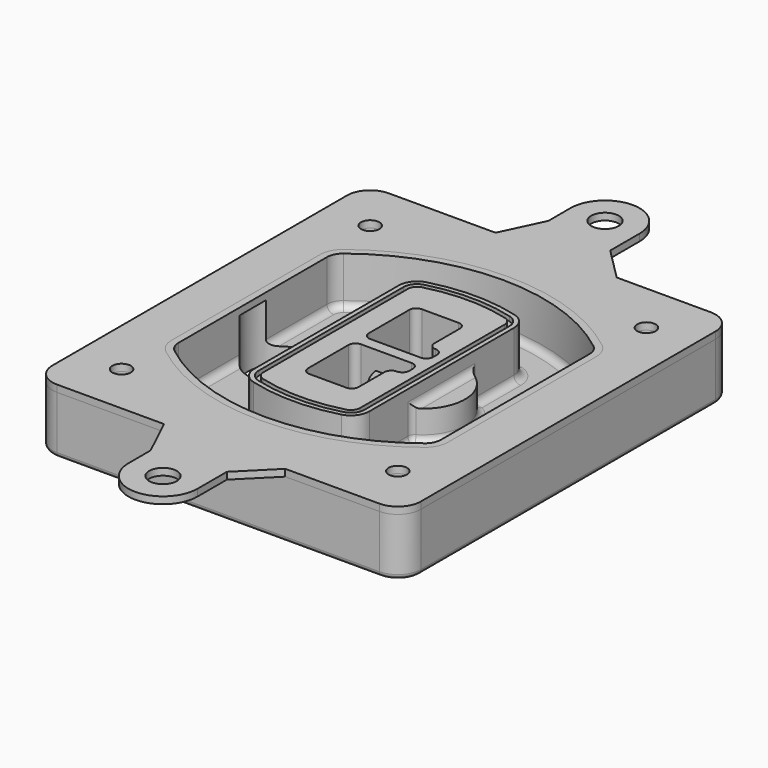
from build123d import *

# Parameters (mm, degrees)
F0_R      = 4
F1_DEPTH  = 25
F2_DEPTH  = 3
F3_DEPTH  = 18
F5_DEPTH  = 21
F6_DEPTH  = 2
F8_DEPTH  = 20
F9_DEPTH  = 16
F10_DEPTH = 25
F7_R      = 6
F7_R_2    = 4
F11_DEPTH = 6
F13_DEPTH = 9
F14_R     = 3
F15_R     = 2
F16_R     = 4
F16_R_2   = 6
F17_DEPTH = 3


with BuildPart() as f1:
    # F0 (on Top) → F1 (new body)
    with BuildSketch(Plane.XY):
        with BuildLine():
            ThreePointArc((-80, -80), (-77.0710678119, -87.0710678119), (-70, -90))
            Line((-70, -90), (70, -90))
            ThreePointArc((70, -90), (77.0710678119, -87.0710678119), (80, -80))
            Line((80, -80), (80, 80))
            ThreePointArc((80, 80), (77.0710678119, 87.0710678119), (70, 90))
            Line((70, 90), (-70, 90))
            ThreePointArc((-70, 90), (-77.0710678119, 87.0710678119), (-80, 80))
            Line((-80, 80), (-80, -80))
        make_face()
        with Locations((-60, -67.5)):
            Circle(F0_R, mode=Mode.SUBTRACT)
        with Locations((60, -67.5)):
            Circle(F0_R, mode=Mode.SUBTRACT)
        with Locations((-60, 67.5)):
            Circle(F0_R, mode=Mode.SUBTRACT)
        with BuildLine():
            ThreePointArc((-64, 40.2934422872), (-62.5820384798, 46.4328484224), (-58.6153846154, 51.3286200352))
            ThreePointArc((-58.6153846154, 51.3286200352), (0, 71.5), (58.6153846154, 51.3286200352))
            ThreePointArc((58.6153846154, 51.3286200352), (62.5820384798, 46.4328484224), (64, 40.2934422872))
            Line((64, 40.2934422872), (64, -40.2934422872))
            ThreePointArc((64, -40.2934422872), (62.5820384798, -46.4328484224), (58.6153846154, -51.3286200352))
            ThreePointArc((58.6153846154, -51.3286200352), (0, -71.5), (-58.6153846154, -51.3286200352))
            ThreePointArc((-58.6153846154, -51.3286200352), (-62.5820384798, -46.4328484224), (-64, -40.2934422872))
            Line((-64, -40.2934422872), (-64, 40.2934422872))
        make_face(mode=Mode.SUBTRACT)
        with Locations((60, 67.5)):
            Circle(F0_R, mode=Mode.SUBTRACT)
        with BuildLine():
            ThreePointArc((58.6153846154, 51.3286200352), (0, 71.5), (-58.6153846154, 51.3286200352))
            ThreePointArc((-58.6153846154, 51.3286200352), (-62.5820384798, 46.4328484224), (-64, 40.2934422872))
            Line((-64, 40.2934422872), (-64, -40.2934422872))
            ThreePointArc((-64, -40.2934422872), (-62.5820384798, -46.4328484224), (-58.6153846154, -51.3286200352))
            ThreePointArc((-58.6153846154, -51.3286200352), (0, -71.5), (58.6153846154, -51.3286200352))
            ThreePointArc((58.6153846154, -51.3286200352), (62.5820384798, -46.4328484224), (64, -40.2934422872))
            Line((64, -40.2934422872), (64, 40.2934422872))
            ThreePointArc((64, 40.2934422872), (62.5820384798, 46.4328484224), (58.6153846154, 51.3286200352))
        make_face()
        with BuildLine():
            Line((-60, -40.2934422872), (-60, 40.2934422872))
            ThreePointArc((-60, 40.2934422872), (-58.9871703427, 44.6787323838), (-56.1538461538, 48.1757121072))
            ThreePointArc((-56.1538461538, 48.1757121072), (0, 67.5), (56.1538461538, 48.1757121072))
            ThreePointArc((56.1538461538, 48.1757121072), (58.9871703427, 44.6787323838), (60, 40.2934422872))
            Line((60, 40.2934422872), (60, -40.2934422872))
            ThreePointArc((60, -40.2934422872), (58.9871703427, -44.6787323838), (56.1538461538, -48.1757121072))
            ThreePointArc((56.1538461538, -48.1757121072), (0, -67.5), (-56.1538461538, -48.1757121072))
            ThreePointArc((-56.1538461538, -48.1757121072), (-58.9871703427, -44.6787323838), (-60, -40.2934422872))
        make_face(mode=Mode.SUBTRACT)
        with BuildLine():
            ThreePointArc((-56.1538461538, 48.1757121072), (-58.9871703427, 44.6787323838), (-60, 40.2934422872))
            Line((-60, 40.2934422872), (-60, -40.2934422872))
            ThreePointArc((-60, -40.2934422872), (-58.9871703427, -44.6787323838), (-56.1538461538, -48.1757121072))
            ThreePointArc((-56.1538461538, -48.1757121072), (0, -67.5), (56.1538461538, -48.1757121072))
            ThreePointArc((56.1538461538, -48.1757121072), (58.9871703427, -44.6787323838), (60, -40.2934422872))
            Line((60, -40.2934422872), (60, 40.2934422872))
            ThreePointArc((60, 40.2934422872), (58.9871703427, 44.6787323838), (56.1538461538, 48.1757121072))
            ThreePointArc((56.1538461538, 48.1757121072), (0, 67.5), (-56.1538461538, 48.1757121072))
        make_face()
        with BuildLine():
            ThreePointArc((54.3076923077, 45.8110311612), (56.2910192399, 43.3631453548), (57, 40.2934422872))
            Line((57, 40.2934422872), (57, -40.2934422872))
            ThreePointArc((57, -40.2934422872), (56.2910192399, -43.3631453548), (54.3076923077, -45.8110311612))
            ThreePointArc((54.3076923077, -45.8110311612), (0, -64.5), (-54.3076923077, -45.8110311612))
            ThreePointArc((-54.3076923077, -45.8110311612), (-56.2910192399, -43.3631453548), (-57, -40.2934422872))
            Line((-57, -40.2934422872), (-57, 40.2934422872))
            ThreePointArc((-57, 40.2934422872), (-56.2910192399, 43.3631453548), (-54.3076923077, 45.8110311612))
            ThreePointArc((-54.3076923077, 45.8110311612), (0, 64.5), (54.3076923077, 45.8110311612))
        make_face(mode=Mode.SUBTRACT)
        with BuildLine():
            Line((57, -40.2934422872), (57, 40.2934422872))
            ThreePointArc((57, 40.2934422872), (56.2910192399, 43.3631453548), (54.3076923077, 45.8110311612))
            ThreePointArc((54.3076923077, 45.8110311612), (0, 64.5), (-54.3076923077, 45.8110311612))
            ThreePointArc((-54.3076923077, 45.8110311612), (-56.2910192399, 43.3631453548), (-57, 40.2934422872))
            Line((-57, 40.2934422872), (-57, -40.2934422872))
            ThreePointArc((-57, -40.2934422872), (-56.2910192399, -43.3631453548), (-54.3076923077, -45.8110311612))
            ThreePointArc((-54.3076923077, -45.8110311612), (0, -64.5), (54.3076923077, -45.8110311612))
            ThreePointArc((54.3076923077, -45.8110311612), (56.2910192399, -43.3631453548), (57, -40.2934422872))
        make_face()
    extrude(amount=-F1_DEPTH)

    # F0 (on Top) → F2 (join)
    with BuildSketch(Plane.XY):
        with BuildLine():
            ThreePointArc((-56.1538461538, 48.1757121072), (-58.9871703427, 44.6787323838), (-60, 40.2934422872))
            Line((-60, 40.2934422872), (-60, -40.2934422872))
            ThreePointArc((-60, -40.2934422872), (-58.9871703427, -44.6787323838), (-56.1538461538, -48.1757121072))
            ThreePointArc((-56.1538461538, -48.1757121072), (0, -67.5), (56.1538461538, -48.1757121072))
            ThreePointArc((56.1538461538, -48.1757121072), (58.9871703427, -44.6787323838), (60, -40.2934422872))
            Line((60, -40.2934422872), (60, 40.2934422872))
            ThreePointArc((60, 40.2934422872), (58.9871703427, 44.6787323838), (56.1538461538, 48.1757121072))
            ThreePointArc((56.1538461538, 48.1757121072), (0, 67.5), (-56.1538461538, 48.1757121072))
        make_face()
        with BuildLine():
            ThreePointArc((54.3076923077, 45.8110311612), (56.2910192399, 43.3631453548), (57, 40.2934422872))
            Line((57, 40.2934422872), (57, -40.2934422872))
            ThreePointArc((57, -40.2934422872), (56.2910192399, -43.3631453548), (54.3076923077, -45.8110311612))
            ThreePointArc((54.3076923077, -45.8110311612), (0, -64.5), (-54.3076923077, -45.8110311612))
            ThreePointArc((-54.3076923077, -45.8110311612), (-56.2910192399, -43.3631453548), (-57, -40.2934422872))
            Line((-57, -40.2934422872), (-57, 40.2934422872))
            ThreePointArc((-57, 40.2934422872), (-56.2910192399, 43.3631453548), (-54.3076923077, 45.8110311612))
            ThreePointArc((-54.3076923077, 45.8110311612), (0, 64.5), (54.3076923077, 45.8110311612))
        make_face(mode=Mode.SUBTRACT)
    extrude(amount=F2_DEPTH)

    # F0 (on Top) → F3 (cut)
    with BuildSketch(Plane.XY):
        with BuildLine():
            Line((57, -40.2934422872), (57, 40.2934422872))
            ThreePointArc((57, 40.2934422872), (56.2910192399, 43.3631453548), (54.3076923077, 45.8110311612))
            ThreePointArc((54.3076923077, 45.8110311612), (0, 64.5), (-54.3076923077, 45.8110311612))
            ThreePointArc((-54.3076923077, 45.8110311612), (-56.2910192399, 43.3631453548), (-57, 40.2934422872))
            Line((-57, 40.2934422872), (-57, -40.2934422872))
            ThreePointArc((-57, -40.2934422872), (-56.2910192399, -43.3631453548), (-54.3076923077, -45.8110311612))
            ThreePointArc((-54.3076923077, -45.8110311612), (0, -64.5), (54.3076923077, -45.8110311612))
            ThreePointArc((54.3076923077, -45.8110311612), (56.2910192399, -43.3631453548), (57, -40.2934422872))
        make_face()
    extrude(amount=-F3_DEPTH, mode=Mode.SUBTRACT)

    # F4 (on face) → F5 (join, through all)
    with BuildSketch(Plane.XY.offset(3)):
        with BuildLine():
            ThreePointArc((-25, -39.2465276821), (-23.3511545998, -44.1109737193), (-19.0842911877, -46.9702398883))
            ThreePointArc((-19.0842911877, -46.9702398883), (0, -49.5), (19.0842911877, -46.9702398883))
            ThreePointArc((19.0842911877, -46.9702398883), (23.3511545998, -44.1109737193), (25, -39.2465276821))
            Line((25, -39.2465276821), (25, 39.2465276821))
            ThreePointArc((25, 39.2465276821), (23.3511545998, 44.1109737193), (19.0842911877, 46.9702398883))
            ThreePointArc((19.0842911877, 46.9702398883), (0, 49.5), (-19.0842911877, 46.9702398883))
            ThreePointArc((-19.0842911877, 46.9702398883), (-23.3511545998, 44.1109737193), (-25, 39.2465276821))
            Line((-25, 39.2465276821), (-25, -39.2465276821))
        make_face()
        with BuildLine():
            ThreePointArc((18.5632183908, 45.0393118368), (21.7633659499, 42.89486221), (23, 39.2465276821))
            Line((23, 39.2465276821), (23, -39.2465276821))
            ThreePointArc((23, -39.2465276821), (21.7633659499, -42.89486221), (18.5632183908, -45.0393118368))
            ThreePointArc((18.5632183908, -45.0393118368), (0, -47.5), (-18.5632183908, -45.0393118368))
            ThreePointArc((-18.5632183908, -45.0393118368), (-21.7633659499, -42.89486221), (-23, -39.2465276821))
            Line((-23, -39.2465276821), (-23, 39.2465276821))
            ThreePointArc((-23, 39.2465276821), (-21.7633659499, 42.89486221), (-18.5632183908, 45.0393118368))
            ThreePointArc((-18.5632183908, 45.0393118368), (0, 47.5), (18.5632183908, 45.0393118368))
        make_face(mode=Mode.SUBTRACT)
        with BuildLine():
            Line((23, -39.2465276821), (23, 39.2465276821))
            ThreePointArc((23, 39.2465276821), (21.7633659499, 42.89486221), (18.5632183908, 45.0393118368))
            ThreePointArc((18.5632183908, 45.0393118368), (0, 47.5), (-18.5632183908, 45.0393118368))
            ThreePointArc((-18.5632183908, 45.0393118368), (-21.7633659499, 42.89486221), (-23, 39.2465276821))
            Line((-23, 39.2465276821), (-23, -39.2465276821))
            ThreePointArc((-23, -39.2465276821), (-21.7633659499, -42.89486221), (-18.5632183908, -45.0393118368))
            ThreePointArc((-18.5632183908, -45.0393118368), (0, -47.5), (18.5632183908, -45.0393118368))
            ThreePointArc((18.5632183908, -45.0393118368), (21.7633659499, -42.89486221), (23, -39.2465276821))
        make_face()
        with BuildLine():
            ThreePointArc((18.0421455939, 43.1083837852), (20.1755772999, 41.6787507007), (21, 39.2465276821))
            Line((21, 39.2465276821), (21, -39.2465276821))
            ThreePointArc((21, -39.2465276821), (20.1755772999, -41.6787507007), (18.0421455939, -43.1083837852))
            ThreePointArc((18.0421455939, -43.1083837852), (0, -45.5), (-18.0421455939, -43.1083837852))
            ThreePointArc((-18.0421455939, -43.1083837852), (-20.1755772999, -41.6787507007), (-21, -39.2465276821))
            Line((-21, -39.2465276821), (-21, 39.2465276821))
            ThreePointArc((-21, 39.2465276821), (-20.1755772999, 41.6787507007), (-18.0421455939, 43.1083837852))
            ThreePointArc((-18.0421455939, 43.1083837852), (0, 45.5), (18.0421455939, 43.1083837852))
        make_face(mode=Mode.SUBTRACT)
        with BuildLine():
            Line((21, -39.2465276821), (21, 39.2465276821))
            ThreePointArc((21, 39.2465276821), (20.1755772999, 41.6787507007), (18.0421455939, 43.1083837852))
            ThreePointArc((18.0421455939, 43.1083837852), (0, 45.5), (-18.0421455939, 43.1083837852))
            ThreePointArc((-18.0421455939, 43.1083837852), (-20.1755772999, 41.6787507007), (-21, 39.2465276821))
            Line((-21, 39.2465276821), (-21, -39.2465276821))
            ThreePointArc((-21, -39.2465276821), (-20.1755772999, -41.6787507007), (-18.0421455939, -43.1083837852))
            ThreePointArc((-18.0421455939, -43.1083837852), (0, -45.5), (18.0421455939, -43.1083837852))
            ThreePointArc((18.0421455939, -43.1083837852), (20.1755772999, -41.6787507007), (21, -39.2465276821))
        make_face()
        with BuildLine():
            Line((-8, -2.5), (14, -2.5))
            ThreePointArc((14, -2.5), (16.1213203436, -3.3786796564), (17, -5.5))
            Line((17, -5.5), (17, -7.5))
            ThreePointArc((17, -7.5), (16.1213203436, -9.6213203436), (14, -10.5))
            ThreePointArc((14, -10.5), (11.8786796564, -11.3786796564), (11, -13.5))
            Line((11, -13.5), (11, -27.5))
            ThreePointArc((11, -27.5), (10.1213203436, -29.6213203436), (8, -30.5))
            Line((8, -30.5), (-8, -30.5))
            ThreePointArc((-8, -30.5), (-10.1213203436, -29.6213203436), (-11, -27.5))
            Line((-11, -27.5), (-11, -5.5))
            ThreePointArc((-11, -5.5), (-10.1213203436, -3.3786796564), (-8, -2.5))
        make_face(mode=Mode.SUBTRACT)
        with BuildLine():
            ThreePointArc((-8, 2.5), (-10.1213203436, 3.3786796564), (-11, 5.5))
            Line((-11, 5.5), (-11, 27.5))
            ThreePointArc((-11, 27.5), (-10.1213203436, 29.6213203436), (-8, 30.5))
            Line((-8, 30.5), (8, 30.5))
            ThreePointArc((8, 30.5), (10.1213203436, 29.6213203436), (11, 27.5))
            Line((11, 27.5), (11, 13.5))
            ThreePointArc((11, 13.5), (11.8786796564, 11.3786796564), (14, 10.5))
            ThreePointArc((14, 10.5), (16.1213203436, 9.6213203436), (17, 7.5))
            Line((17, 7.5), (17, 5.5))
            ThreePointArc((17, 5.5), (16.1213203436, 3.3786796564), (14, 2.5))
            Line((14, 2.5), (-8, 2.5))
        make_face(mode=Mode.SUBTRACT)
    extrude(amount=-F5_DEPTH)

    # F4 (on face) → F6 (cut)
    with BuildSketch(Plane.XY.offset(3)):
        with BuildLine():
            Line((23, -39.2465276821), (23, 39.2465276821))
            ThreePointArc((23, 39.2465276821), (21.7633659499, 42.89486221), (18.5632183908, 45.0393118368))
            ThreePointArc((18.5632183908, 45.0393118368), (0, 47.5), (-18.5632183908, 45.0393118368))
            ThreePointArc((-18.5632183908, 45.0393118368), (-21.7633659499, 42.89486221), (-23, 39.2465276821))
            Line((-23, 39.2465276821), (-23, -39.2465276821))
            ThreePointArc((-23, -39.2465276821), (-21.7633659499, -42.89486221), (-18.5632183908, -45.0393118368))
            ThreePointArc((-18.5632183908, -45.0393118368), (0, -47.5), (18.5632183908, -45.0393118368))
            ThreePointArc((18.5632183908, -45.0393118368), (21.7633659499, -42.89486221), (23, -39.2465276821))
        make_face()
        with BuildLine():
            ThreePointArc((18.0421455939, 43.1083837852), (20.1755772999, 41.6787507007), (21, 39.2465276821))
            Line((21, 39.2465276821), (21, -39.2465276821))
            ThreePointArc((21, -39.2465276821), (20.1755772999, -41.6787507007), (18.0421455939, -43.1083837852))
            ThreePointArc((18.0421455939, -43.1083837852), (0, -45.5), (-18.0421455939, -43.1083837852))
            ThreePointArc((-18.0421455939, -43.1083837852), (-20.1755772999, -41.6787507007), (-21, -39.2465276821))
            Line((-21, -39.2465276821), (-21, 39.2465276821))
            ThreePointArc((-21, 39.2465276821), (-20.1755772999, 41.6787507007), (-18.0421455939, 43.1083837852))
            ThreePointArc((-18.0421455939, 43.1083837852), (0, 45.5), (18.0421455939, 43.1083837852))
        make_face(mode=Mode.SUBTRACT)
    extrude(amount=-F6_DEPTH, mode=Mode.SUBTRACT)

    # F7 (on face) → F8 (join)
    with BuildSketch(Plane(origin=(0, 0, -25), x_dir=(1, 0, 0), z_dir=(0, 0, -1))):
        with BuildLine():
            ThreePointArc((3.28842436, 0), (16.7567035675, 13.4682792075), (30.224982775, 0))
            Line((30.224982775, 0), (35.224982775, 0))
            ThreePointArc((35.224982775, 0), (16.7567035675, 18.4682792075), (-1.71157564, 0))
            Line((-1.71157564, 0), (3.28842436, 0))
        make_face()
        with BuildLine():
            Line((3.28842436, 0), (30.224982775, 0))
            ThreePointArc((30.224982775, 0), (16.7567035675, 13.4682792075), (3.28842436, 0))
        make_face()
        with BuildLine():
            ThreePointArc((3.28842436, 0), (16.7567035675, -13.4682792075), (30.224982775, 0))
            Line((30.224982775, 0), (3.28842436, 0))
        make_face()
        with BuildLine():
            Line((35.224982775, 0), (30.224982775, 0))
            ThreePointArc((30.224982775, 0), (16.7567035675, -13.4682792075), (3.28842436, 0))
            Line((3.28842436, 0), (-1.71157564, 0))
            ThreePointArc((-1.71157564, 0), (16.7567035675, -18.4682792075), (35.224982775, 0))
        make_face()
    extrude(amount=-F8_DEPTH)

    # F7 (on face) → F9 (cut)
    with BuildSketch(Plane(origin=(0, 0, -25), x_dir=(1, 0, 0), z_dir=(0, 0, -1))):
        with BuildLine():
            Line((3.28842436, 0), (30.224982775, 0))
            ThreePointArc((30.224982775, 0), (16.7567035675, 13.4682792075), (3.28842436, 0))
        make_face()
        with BuildLine():
            ThreePointArc((3.28842436, 0), (16.7567035675, -13.4682792075), (30.224982775, 0))
            Line((30.224982775, 0), (3.28842436, 0))
        make_face()
    extrude(amount=-F9_DEPTH, mode=Mode.SUBTRACT)

    # F7 (on face) → F10 (cut)
    with BuildSketch(Plane(origin=(0, 0, -25), x_dir=(1, 0, 0), z_dir=(0, 0, -1))):
        with BuildLine():
            Line((-59.0318229325, 0), (-32.0952645175, 0))
            ThreePointArc((-32.0952645175, 0), (-45.563543725, 13.4682792075), (-59.0318229325, 0))
        make_face()
        with BuildLine():
            ThreePointArc((-59.0318229325, 0), (-45.563543725, -13.4682792075), (-32.0952645175, 0))
            Line((-32.0952645175, 0), (-59.0318229325, 0))
        make_face()
    extrude(amount=-F10_DEPTH, mode=Mode.SUBTRACT)

    # F7 (on face) → F11 (cut)
    with BuildSketch(Plane(origin=(0, 0, -25), x_dir=(1, 0, 0), z_dir=(0, 0, -1))):
        with Locations((60, -67.5)):
            Circle(F7_R)
        with Locations((60, -67.5)):
            Circle(F7_R_2, mode=Mode.SUBTRACT)
        with Locations((60, -67.5)):
            Circle(F7_R)
        with Locations((60, -67.5)):
            Circle(F7_R_2, mode=Mode.SUBTRACT)
        with Locations((-60, -67.5)):
            Circle(F7_R)
        with Locations((-60, -67.5)):
            Circle(F7_R_2, mode=Mode.SUBTRACT)
        with Locations((-60, -67.5)):
            Circle(F7_R)
        with Locations((-60, -67.5)):
            Circle(F7_R_2, mode=Mode.SUBTRACT)
        with Locations((-60, 67.5)):
            Circle(F7_R)
        with Locations((-60, 67.5)):
            Circle(F7_R_2, mode=Mode.SUBTRACT)
        with Locations((-60, 67.5)):
            Circle(F7_R)
        with Locations((-60, 67.5)):
            Circle(F7_R_2, mode=Mode.SUBTRACT)
        with Locations((60, 67.5)):
            Circle(F7_R)
        with Locations((60, 67.5)):
            Circle(F7_R_2, mode=Mode.SUBTRACT)
        with Locations((60, 67.5)):
            Circle(F7_R)
        with Locations((60, 67.5)):
            Circle(F7_R_2, mode=Mode.SUBTRACT)
    extrude(amount=-F11_DEPTH, mode=Mode.SUBTRACT)

    # F12 (on face) → F13 (cut, through all)
    with BuildSketch(Plane(origin=(0, 0, -9), x_dir=(1, 0, 0), z_dir=(0, 0, -1))):
        with BuildLine():
            Line((11, 13.5), (11, 17.5481537753))
            ThreePointArc((11, 17.5481537753), (2.5696536419, 11.8239143813), (-1.5415842455, 2.5))
            Line((-1.5415842455, 2.5), (3.5224848595, 2.5))
            ThreePointArc((3.5224848595, 2.5), (6.1857188154, 8.3455872281), (11.2536447004, 12.2927168648))
            ThreePointArc((11.2536447004, 12.2927168648), (11.0640958889, 12.8831798879), (11, 13.5))
        make_face()
        with BuildLine():
            ThreePointArc((11.2536447004, -12.2927168648), (6.1857188154, -8.3455872281), (3.5224848595, -2.5))
            Line((3.5224848595, -2.5), (-1.5415842455, -2.5))
            ThreePointArc((-1.5415842455, -2.5), (2.5696536419, -11.8239143813), (11, -17.5481537753))
            Line((11, -17.5481537753), (11, -13.5))
            ThreePointArc((11, -13.5), (11.0640958889, -12.8831798879), (11.2536447004, -12.2927168648))
        make_face()
        with BuildLine():
            ThreePointArc((11.2536447004, 12.2927168648), (6.1857188154, 8.3455872281), (3.5224848595, 2.5))
            Line((3.5224848595, 2.5), (14, 2.5))
            ThreePointArc((14, 2.5), (16.1213203436, 3.3786796564), (17, 5.5))
            Line((17, 5.5), (17, 7.5))
            ThreePointArc((17, 7.5), (16.1213203436, 9.6213203436), (14, 10.5))
            ThreePointArc((14, 10.5), (12.3601599782, 10.9878446101), (11.2536447004, 12.2927168648))
        make_face()
        with BuildLine():
            Line((14, -2.5), (3.5224848595, -2.5))
            ThreePointArc((3.5224848595, -2.5), (6.1857188154, -8.3455872281), (11.2536447004, -12.2927168648))
            ThreePointArc((11.2536447004, -12.2927168648), (12.3601599782, -10.9878446101), (14, -10.5))
            ThreePointArc((14, -10.5), (16.1213203436, -9.6213203436), (17, -7.5))
            Line((17, -7.5), (17, -5.5))
            ThreePointArc((17, -5.5), (16.1213203436, -3.3786796564), (14, -2.5))
        make_face()
    extrude(amount=F13_DEPTH, mode=Mode.SUBTRACT)

    # F14
    f14_edges = [f1.edges().sort_by_distance(p)[0] for p in [
        (-57, -23.703476, -18),
        (-57, 23.703476, -18),
        (25, 0, -5),
        (25, 16.526506, -11.5),
        (25, -16.526506, -11.5),
        (25, -27.886517, -18),
        (35.224983, 0, -18),
    ]]
    fillet(f14_edges, radius=F14_R)

    # F15
    f15_edges = [f1.edges().sort_by_distance(p)[0] for p in [
        (0, -90, -25),
    ]]
    fillet(f15_edges, radius=F15_R)


with BuildPart() as f17:
    # F16 (on face) → F17 (new body, through all)
    with BuildSketch(Plane.XY):
        with BuildLine():
            Line((-23.5309228432, 90), (-70, 90))
            ThreePointArc((-70, 90), (-77.0710678119, 87.0710678119), (-80, 80))
            Line((-80, 80), (-80, -80))
            ThreePointArc((-80, -80), (-77.0710678119, -87.0710678119), (-70, -90))
            Line((-70, -90), (-23.5309228432, -90))
            Line((-23.5309228432, -90), (29.085038952, -90))
            Line((29.085038952, -90), (70, -90))
            ThreePointArc((70, -90), (77.0710678119, -87.0710678119), (80, -80))
            Line((80, -80), (80, 80))
            ThreePointArc((80, 80), (77.0710678119, 87.0710678119), (70, 90))
            Line((70, 90), (29.085038952, 90))
            Line((29.085038952, 90), (-23.5309228432, 90))
        make_face()
        with Locations((-60, -67.5)):
            Circle(F16_R, mode=Mode.SUBTRACT)
        with Locations((60, -67.5)):
            Circle(F16_R, mode=Mode.SUBTRACT)
        with Locations((-60, 67.5)):
            Circle(F16_R, mode=Mode.SUBTRACT)
        with BuildLine():
            ThreePointArc((-56.1538461538, 48.1757121072), (0, 67.5), (56.1538461538, 48.1757121072))
            ThreePointArc((56.1538461538, 48.1757121072), (58.9871703427, 44.6787323838), (60, 40.2934422872))
            Line((60, 40.2934422872), (60, -40.2934422872))
            ThreePointArc((60, -40.2934422872), (58.9871703427, -44.6787323838), (56.1538461538, -48.1757121072))
            ThreePointArc((56.1538461538, -48.1757121072), (0, -67.5), (-56.1538461538, -48.1757121072))
            ThreePointArc((-56.1538461538, -48.1757121072), (-58.9871703427, -44.6787323838), (-60, -40.2934422872))
            Line((-60, -40.2934422872), (-60, 40.2934422872))
            ThreePointArc((-60, 40.2934422872), (-58.9871703427, 44.6787323838), (-56.1538461538, 48.1757121072))
        make_face(mode=Mode.SUBTRACT)
        with Locations((60, 67.5)):
            Circle(F16_R, mode=Mode.SUBTRACT)
        with BuildLine():
            Line((-15, 108), (-23.5309228432, 90))
            Line((-23.5309228432, 90), (29.085038952, 90))
            Line((29.085038952, 90), (15, 104.085038952))
            Line((15, 104.085038952), (15, 120))
            ThreePointArc((15, 120), (0, 135), (-15, 120))
            Line((-15, 120), (-15, 108))
        make_face()
        with Locations((0, 120)):
            Circle(F16_R_2, mode=Mode.SUBTRACT)
        with BuildLine():
            Line((29.085038952, -90), (-23.5309228432, -90))
            Line((-23.5309228432, -90), (-15, -108))
            Line((-15, -108), (-15, -120))
            ThreePointArc((-15, -120), (0, -135), (15, -120))
            Line((15, -120), (15, -104.085038952))
            Line((15, -104.085038952), (29.085038952, -90))
        make_face()
        with Locations((0, -120)):
            Circle(F16_R_2, mode=Mode.SUBTRACT)
    extrude(amount=F17_DEPTH)


solid = Compound([f1.part, f17.part])
